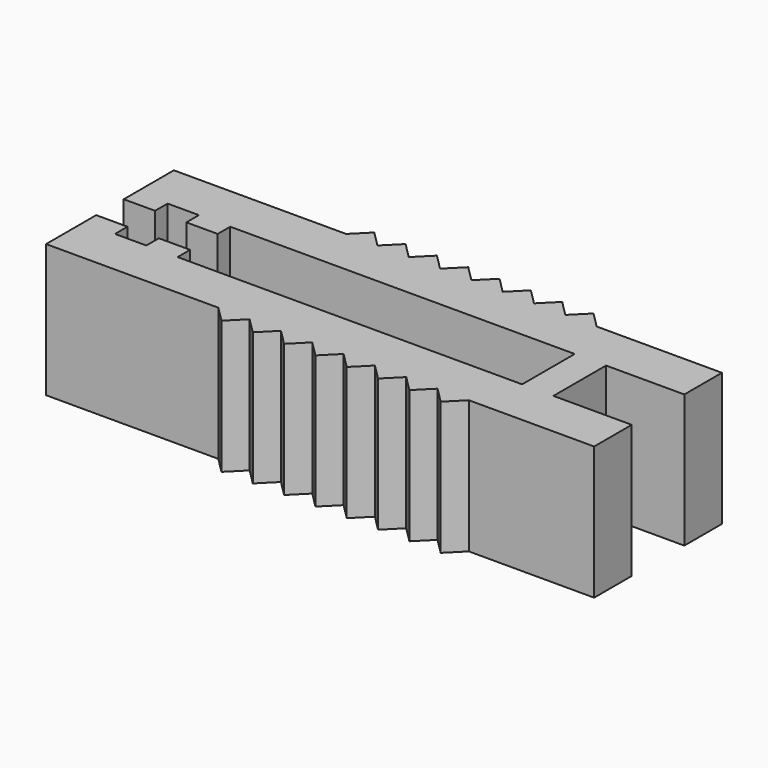
from build123d import *

# Parameters (mm, degrees)
F1_DEPTH = 8.5


with BuildPart() as f1:
    # F0 (on Top) → F1 (new body)
    with BuildSketch(Plane.XY):
        Polygon((-4, 2.1), (-4, 0), (-2, 0), (-2, 2.1), (3, 2.1), (3, 5.1), (-5, 5.1), (-7, 5.1), (-9, 5.1), (-11, 5.1), (-13, 5.1), (-15, 5.1), (-17, 5.1), (-19, 5.1), (-21, 5.1), (-32, 5.1), (-32, 2.1), (-32, 1.1), (-30, 1.1), (-30, 2.1), (-28, 2.1), (-28, 1.1), (-26, 1.1), (-26, 2.1), align=None)
        Polygon((-2, 0), (-4, 0), (-4, -2.1), (-26, -2.1), (-26, -1.1), (-28, -1.1), (-28, -2.1), (-30, -2.1), (-30, -1.1), (-32, -1.1), (-32, -2.1), (-32, -5.1), (-21, -5.1), (-19, -5.1), (-17, -5.1), (-15, -5.1), (-13, -5.1), (-11, -5.1), (-9, -5.1), (-7, -5.1), (-5, -5.1), (3, -5.1), (3, -2.1), (-2, -2.1), align=None)
        Polygon((-7, 5.1), (-5, 5.1), (-6, 6.1), align=None)
        Polygon((-6, -6.1), (-5, -5.1), (-7, -5.1), align=None)
        Polygon((-9, 5.1), (-7, 5.1), (-8, 6.1), align=None)
        Polygon((-8, -6.1), (-7, -5.1), (-9, -5.1), align=None)
        Polygon((-11, 5.1), (-9, 5.1), (-10, 6.1), align=None)
        Polygon((-10, -6.1), (-9, -5.1), (-11, -5.1), align=None)
        Polygon((-13, 5.1), (-11, 5.1), (-12, 6.1), align=None)
        Polygon((-12, -6.1), (-11, -5.1), (-13, -5.1), align=None)
        Polygon((-15, 5.1), (-13, 5.1), (-14, 6.1), align=None)
        Polygon((-14, -6.1), (-13, -5.1), (-15, -5.1), align=None)
        Polygon((-17, 5.1), (-15, 5.1), (-16, 6.1), align=None)
        Polygon((-16, -6.1), (-15, -5.1), (-17, -5.1), align=None)
        Polygon((-19, 5.1), (-17, 5.1), (-18, 6.1), align=None)
        Polygon((-18, -6.1), (-17, -5.1), (-19, -5.1), align=None)
        Polygon((-20, 6.1), (-21, 5.1), (-19, 5.1), align=None)
        Polygon((-19, -5.1), (-21, -5.1), (-20, -6.1), align=None)
    extrude(amount=F1_DEPTH)


solid = f1.part
